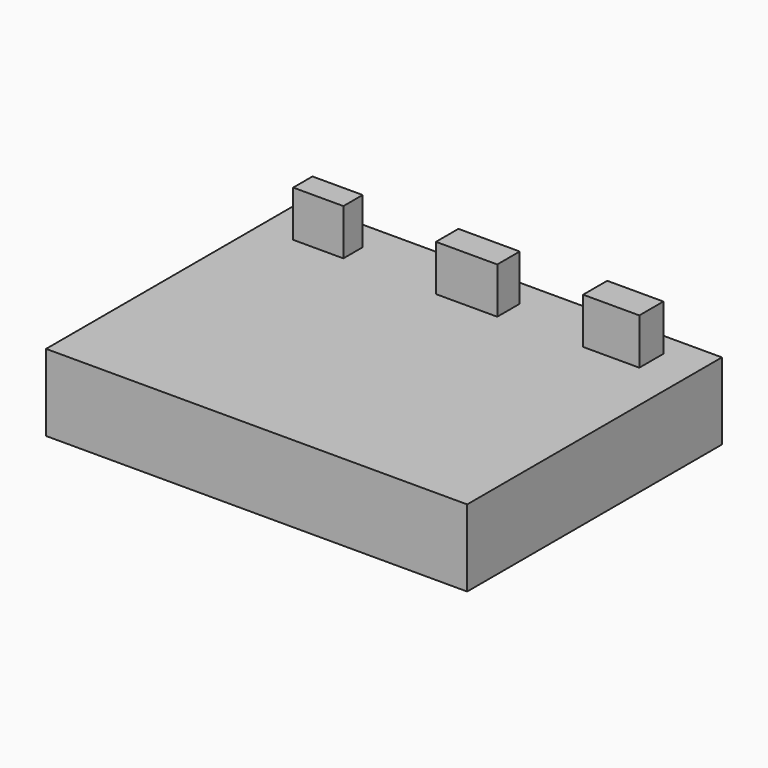
from build123d import *

# Parameters (mm, degrees)
F0_W     = 54.88
F0_H     = 41.5
F1_DEPTH = 10
F2_W     = 6.537087
F2_H     = 3.137803
F2_W_2   = 7.990626
F2_H_2   = 3.66077
F2_W_3   = 7.32154
F2_H_3   = 3.92225
F3_DEPTH = 6


with BuildPart() as f1:
    # F0 (on Top) → F1 (new body)
    with BuildSketch(Plane.XY):
        Rectangle(F0_W, F0_H)
    extrude(amount=F1_DEPTH)

    # F2 (on face) → F3 (join)
    with BuildSketch(Plane.XY.offset(10)):
        with Locations((-19.538203, 15.287418)):
            Rectangle(F2_W, F2_H)
        with Locations((0, 15.287419)):
            Rectangle(F2_W_2, F2_H_2)
        with Locations((18.638391, 15.679644)):
            Rectangle(F2_W_3, F2_H_3)
    extrude(amount=F3_DEPTH)


solid = f1.part
